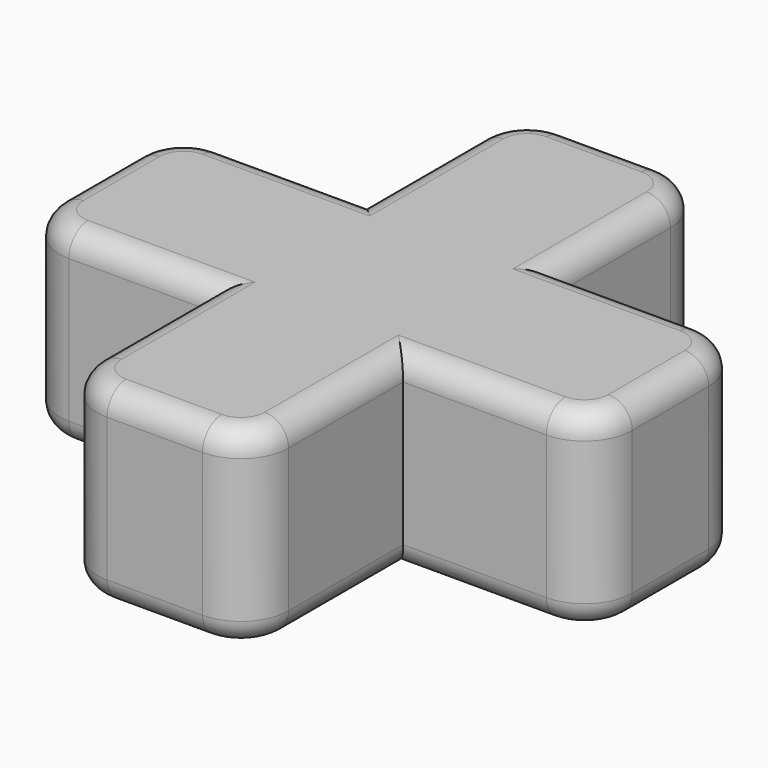
from build123d import *

# Parameters (mm, degrees)
F0_W     = 3.175
F0_H     = 3.175
F1_DEPTH = 3.175
F2_R     = 0.396875


with BuildPart() as f1:
    # F0 (on Top) → F1 (new body)
    with BuildSketch(Plane.XY):
        with BuildLine():
            ThreePointArc((1.5875, 3.96875), (1.3550160076, 4.5300160076), (0.79375, 4.7625))
            Line((0.79375, 4.7625), (-0.79375, 4.7625))
            ThreePointArc((-0.79375, 4.7625), (-1.3550160076, 4.5300160076), (-1.5875, 3.96875))
            Line((-1.5875, 3.96875), (-1.5875, 1.5875))
            Line((-1.5875, 1.5875), (1.5875, 1.5875))
            Line((1.5875, 1.5875), (1.5875, 3.96875))
        make_face()
        with BuildLine():
            Line((3.96875, 1.5875), (1.5875, 1.5875))
            Line((1.5875, 1.5875), (1.5875, -1.5875))
            Line((1.5875, -1.5875), (3.96875, -1.5875))
            ThreePointArc((3.96875, -1.5875), (4.5300160076, -1.3550160076), (4.7625, -0.79375))
            Line((4.7625, -0.79375), (4.7625, 0.79375))
            ThreePointArc((4.7625, 0.79375), (4.5300160076, 1.3550160076), (3.96875, 1.5875))
        make_face()
        Rectangle(F0_W, F0_H)
        with BuildLine():
            Line((-1.5875, -1.5875), (-1.5875, 1.5875))
            Line((-1.5875, 1.5875), (-3.96875, 1.5875))
            ThreePointArc((-3.96875, 1.5875), (-4.5300160076, 1.3550160076), (-4.7625, 0.79375))
            Line((-4.7625, 0.79375), (-4.7625, -0.79375))
            ThreePointArc((-4.7625, -0.79375), (-4.5300160076, -1.3550160076), (-3.96875, -1.5875))
            Line((-3.96875, -1.5875), (-1.5875, -1.5875))
        make_face()
        with BuildLine():
            Line((1.5875, -3.96875), (1.5875, -1.5875))
            Line((1.5875, -1.5875), (-1.5875, -1.5875))
            Line((-1.5875, -1.5875), (-1.5875, -3.96875))
            ThreePointArc((-1.5875, -3.96875), (-1.3550160076, -4.5300160076), (-0.79375, -4.7625))
            Line((-0.79375, -4.7625), (0.79375, -4.7625))
            ThreePointArc((0.79375, -4.7625), (1.3550160076, -4.5300160076), (1.5875, -3.96875))
        make_face()
    extrude(amount=F1_DEPTH)

    # F2
    f2_edges = [f1.edges().sort_by_distance(p)[0] for p in [
        (1.355016, 4.530016, 3.175),
        (0, 4.7625, 3.175),
        (-1.355016, 4.530016, 3.175),
        (-1.5875, 2.778125, 3.175),
        (-2.778125, 1.5875, 3.175),
        (-4.530016, 1.355016, 3.175),
        (-4.7625, 0, 3.175),
        (-4.530016, -1.355016, 3.175),
        (-2.778125, -1.5875, 3.175),
        (-1.5875, -2.778125, 3.175),
        (-1.355016, -4.530016, 3.175),
        (0, -4.7625, 3.175),
        (1.355016, -4.530016, 3.175),
        (1.5875, -2.778125, 3.175),
        (2.778125, -1.5875, 3.175),
        (4.530016, -1.355016, 3.175),
        (4.7625, 0, 3.175),
        (4.530016, 1.355016, 3.175),
        (2.778125, 1.5875, 3.175),
        (1.5875, 2.778125, 3.175),
        (1.355016, 4.530016, 0),
        (0, 4.7625, 0),
        (-1.355016, 4.530016, 0),
        (-1.5875, 2.778125, 0),
        (-2.778125, 1.5875, 0),
        (-4.530016, 1.355016, 0),
        (-4.7625, 0, 0),
        (-4.530016, -1.355016, 0),
        (-2.778125, -1.5875, 0),
        (-1.5875, -2.778125, 0),
        (-1.355016, -4.530016, 0),
        (0, -4.7625, 0),
        (1.355016, -4.530016, 0),
        (1.5875, -2.778125, 0),
        (2.778125, -1.5875, 0),
        (4.530016, -1.355016, 0),
        (4.7625, 0, 0),
        (4.530016, 1.355016, 0),
        (2.778125, 1.5875, 0),
        (1.5875, 2.778125, 0),
    ]]
    fillet(f2_edges, radius=F2_R)


solid = f1.part
